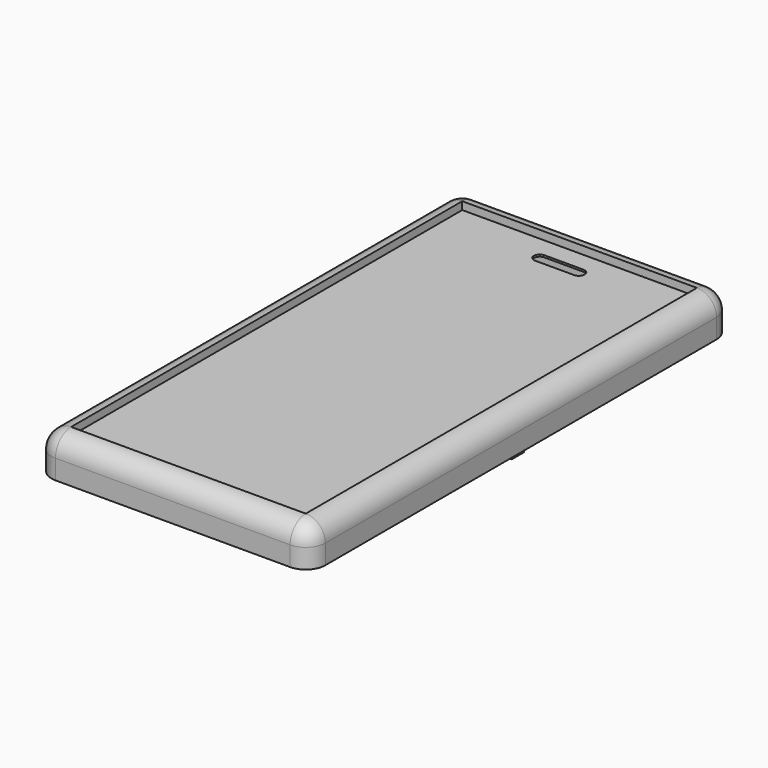
from build123d import *

# Parameters (mm, degrees)
F0_W      = 70
F0_H      = 135
F1_DEPTH  = 10
F2_T      = -2.5
F3_R      = 5
F4_R      = 5
F5_R      = 5
F6_R      = 5
F7_W      = 1
F7_H      = 4
F8_DEPTH  = 1
F9_DEPTH  = 2
F11_DEPTH = 1


with BuildPart() as f1:
    # F0 (on Top) → F1 (new body)
    with BuildSketch(Plane.XY):
        Rectangle(F0_W, F0_H)
    extrude(amount=F1_DEPTH)

    # F2
    f2_openings = [f1.faces().sort_by_distance(p)[0] for p in [
        (0, 0, 0),
    ]]
    offset(amount=F2_T, openings=f2_openings)

    # F3
    f3_edges = [f1.edges().sort_by_distance(p)[0] for p in [
        (0, 67.5, 10),
        (35, 0, 10),
        (35, 67.5, 5),
    ]]
    fillet(f3_edges, radius=F3_R)

    # F4
    f4_edges = [f1.edges().sort_by_distance(p)[0] for p in [
        (33.535534, -67.5, 8.535534),
        (-2.5, -67.5, 10),
    ]]
    fillet(f4_edges, radius=F4_R)

    # F5
    f5_edges = [f1.edges().sort_by_distance(p)[0] for p in [
        (-35, 0, 10),
        (-35, -66.035534, 8.535534),
    ]]
    fillet(f5_edges, radius=F5_R)

    # F6
    f6_edges = [f1.edges().sort_by_distance(p)[0] for p in [
        (32.5, 65, 3.75),
        (-32.5, 65, 3.75),
        (32.5, -65, 3.75),
        (-32.5, -65, 3.75),
    ]]
    fillet(f6_edges, radius=F6_R)

    # F7 (on face) → F8 (join)
    with BuildSketch(Plane(origin=(0, 0, 0), x_dir=(1, 0, 0), z_dir=(0, 0, -1))):
        with Locations((-33.75, 0)):
            Rectangle(F7_W, F7_H)
        with Locations((33.75, 0)):
            Rectangle(F7_W, F7_H)
    extrude(amount=F8_DEPTH)

    # F9 (cut): a face of the model
    f9_faces = [f1.faces().sort_by_distance(p)[0] for p in [
        (0, 0, 10),
    ]]
    extrude(f9_faces, amount=-F9_DEPTH, mode=Mode.SUBTRACT)

    # F10 (on face) → F11 (cut)
    with BuildSketch(Plane.XY.offset(8)):
        with BuildLine():
            Line((5, 57.5), (0, 57.5))
            Line((0, 57.5), (-4.9842596054, 57.5))
            ThreePointArc((-4.9842596054, 57.5), (-6.4842596054, 56), (-4.9842596054, 54.5))
            Line((-4.9842596054, 54.5), (5.0273956731, 54.5))
            ThreePointArc((5.0273956731, 54.5), (6.5000625423, 56.0135733205), (5, 57.5))
        make_face()
    extrude(amount=-F11_DEPTH, mode=Mode.SUBTRACT)


solid = f1.part
